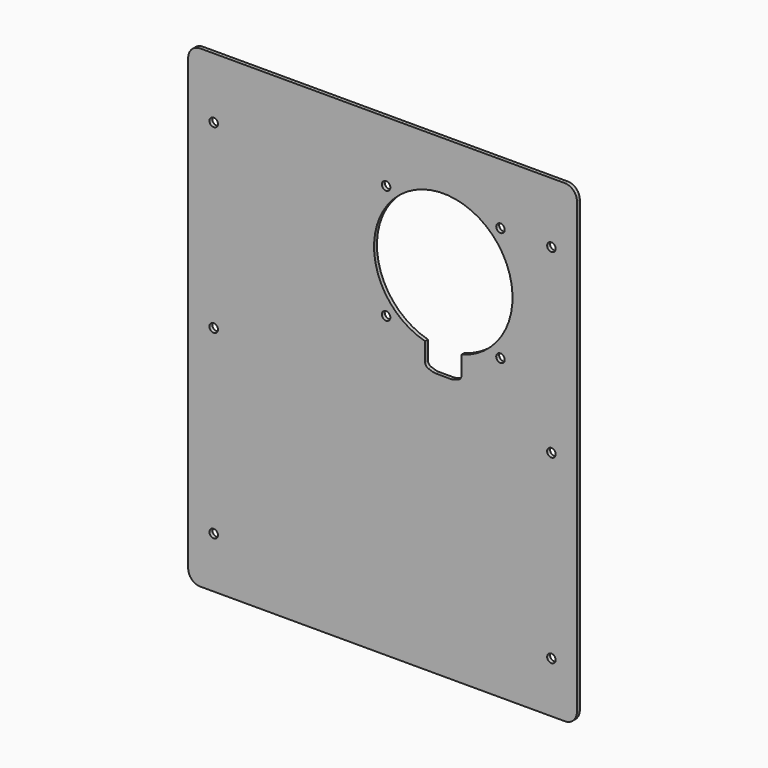
from build123d import *

# Parameters (mm, degrees)
F0_W     = 160
F0_H     = 195
F0_R     = 1.75
F1_DEPTH = 1.5
F2_R     = 2
F3_R     = 4
F4_R     = 5


with BuildPart() as f1:
    # F0 (on Front) → F1 (new body)
    with BuildSketch(Plane.XZ):
        with Locations((-25, -49)):
            Rectangle(F0_W, F0_H)
        with Locations((-94.5, -125.5)):
            Circle(F0_R, mode=Mode.SUBTRACT)
        with Locations((-94.5, -51)):
            Circle(F0_R, mode=Mode.SUBTRACT)
        with Locations((44.5, -125.5)):
            Circle(F0_R, mode=Mode.SUBTRACT)
        with Locations((44.5, -51)):
            Circle(F0_R, mode=Mode.SUBTRACT)
        with Locations((-94.5, 23.5)):
            Circle(F0_R, mode=Mode.SUBTRACT)
        with Locations((-23.546656, -23.546656)):
            Circle(F0_R, mode=Mode.SUBTRACT)
        with BuildLine():
            ThreePointArc((-7.5, -27.495454), (0, 28.5), (7.5, -27.495454))
            Line((7.5, -27.495454), (7.5, -30))
            Line((7.5, -30), (7.5, -36.495454))
            Line((7.5, -36.495454), (3.75, -37.75))
            Line((3.75, -37.75), (0, -37.75))
            Line((0, -37.75), (-3.75, -37.75))
            Line((-3.75, -37.75), (-7.5, -36.495454))
            Line((-7.5, -36.495454), (-7.5, -30))
            Line((-7.5, -30), (-7.5, -27.495454))
        make_face(mode=Mode.SUBTRACT)
        with Locations((23.546656, -23.546656)):
            Circle(F0_R, mode=Mode.SUBTRACT)
        with Locations((-23.546656, 23.546656)):
            Circle(F0_R, mode=Mode.SUBTRACT)
        with Locations((23.546656, 23.546656)):
            Circle(F0_R, mode=Mode.SUBTRACT)
        with Locations((44.5, 23.5)):
            Circle(F0_R, mode=Mode.SUBTRACT)
    extrude(amount=F1_DEPTH)

    # F2
    f2_edges = [f1.edges().sort_by_distance(p)[0] for p in [
        (7.5, -0.75, -36.495454),
        (-7.5, -0.75, -36.495454),
    ]]
    fillet(f2_edges, radius=F2_R)

    # F3
    f3_edges = [f1.edges().sort_by_distance(p)[0] for p in [
        (3.75, -0.75, -37.75),
        (-3.75, -0.75, -37.75),
    ]]
    fillet(f3_edges, radius=F3_R)

    # F4
    f4_edges = [f1.edges().sort_by_distance(p)[0] for p in [
        (55, -0.75, 48.5),
        (-105, -0.75, 48.5),
        (-105, -0.75, -146.5),
        (55, -0.75, -146.5),
    ]]
    fillet(f4_edges, radius=F4_R)


solid = f1.part
